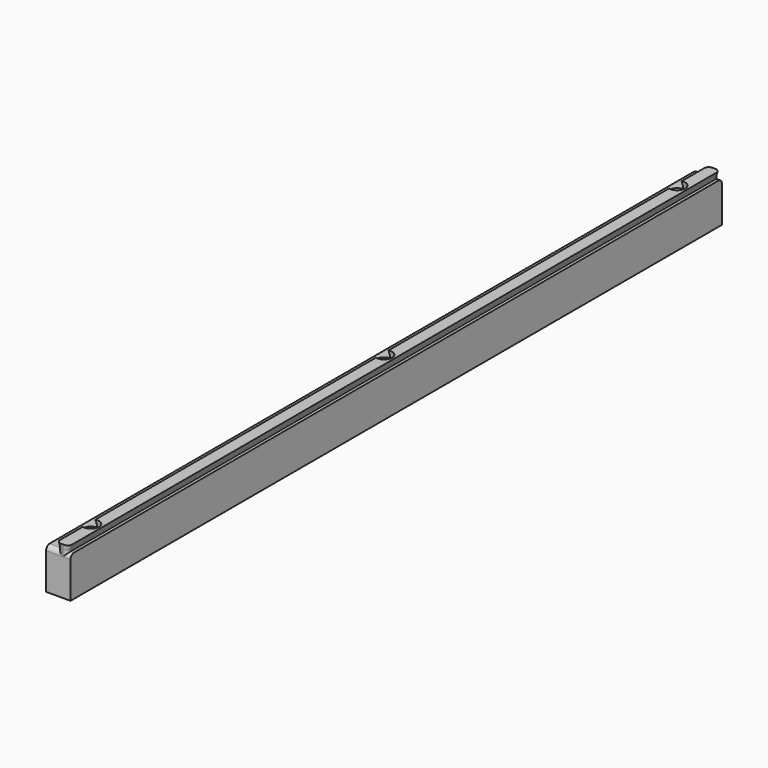
from build123d import *

# Parameters (mm, degrees)
BOX_W                             = 70
BOX_H                             = 200
BOX_DEPTH                         = 11.6
POCKET_DEPTH                      = 200.001
LINEARPATTERN_COUNT               = 5
LINEARPATTERN_PITCH               = 14.5
SKETCH_W                          = 82.408782
SKETCH_H                          = 38.885188
SKETCH_W_2                        = 6
SKETCH_H_2                        = 21.094656
POCKET001_DEPTH                   = 200.001
SKETCH003_R                       = 1
POCKET002_DEPTH                   = 5.201
SKETCH004_R                       = 1
POCKET003_DEPTH                   = 15
SKETCH005_R                       = 2
POCKET004_DEPTH                   = 4.5
FILLET_R                          = 1.1
PART_MIRRORING001_PLACEMENT_ANGLE = 180


with BuildPart() as fillet_body:
    # Box → Box (new body)
    with BuildSketch(Plane(origin=(-7.5, 0, 0), x_dir=(1, 0, 0), z_dir=(0, 0, 1))):
        with Locations((35, 100)):
            Rectangle(BOX_W, BOX_H)
    extrude(amount=BOX_DEPTH)

    # Sketch002 → Pocket (cut, through all)
    with BuildSketch(Plane(origin=(-7.5, 0, 0), x_dir=(1, 0, 0), z_dir=(0, -1, 0))):
        Polygon((14.1, 10), (11.2, 10), (11.2, 3), (2.7, 3), (2.7, 10), (1.9, 10), (1.9, 10.4), (2.25, 11.6), (13.75, 11.6), (14.1, 10.4), align=None)
    pocket = extrude(amount=-POCKET_DEPTH, mode=Mode.SUBTRACT)

    # LinearPattern: Pocket ×5
    with Locations(*[(i * LINEARPATTERN_PITCH, 0, 0) for i in range(1, LINEARPATTERN_COUNT)]):
        add(pocket, mode=Mode.SUBTRACT)

    # Sketch → Pocket001 (cut, through all)
    with BuildSketch(Plane(origin=(-7.5, 0, 0), x_dir=(1, 0, 0), z_dir=(0, -1, 0))):
        with Locations((35.413628, 6.289411)):
            Rectangle(SKETCH_W, SKETCH_H)
        with Locations((14.2, 4.644143)):
            Rectangle(SKETCH_W_2, SKETCH_H_2, mode=Mode.SUBTRACT)
    extrude(amount=-POCKET001_DEPTH, mode=Mode.SUBTRACT)

    # Sketch003 → Pocket002 (cut, through all)
    with BuildSketch(Plane.YZ.offset(8.9)):
        with Locations((21.45, -100)):
            Circle(SKETCH003_R)
        with Locations((21.45, -10)):
            Circle(SKETCH003_R)
        with Locations((21.45, -190)):
            Circle(SKETCH003_R)
    extrude(amount=-POCKET002_DEPTH, mode=Mode.SUBTRACT)

    # Sketch004 → Pocket003 (cut)
    with BuildSketch(Plane(origin=(-7.5, 0, 0), x_dir=(1, 0, 0), z_dir=(0, 0, -1))):
        with Locations((14.2, -190)):
            Circle(SKETCH004_R)
        with Locations((14.2, -100)):
            Circle(SKETCH004_R)
        with Locations((14.2, -10)):
            Circle(SKETCH004_R)
    extrude(amount=-POCKET003_DEPTH, mode=Mode.SUBTRACT)

    # Sketch005 → Pocket004 (cut)
    with BuildSketch(Plane(origin=(-7.5, 0, 11.6), x_dir=(1, 0, 0), z_dir=(0, 0, 1))):
        with Locations((14.2, 190)):
            Circle(SKETCH005_R)
        with Locations((14.2, 100)):
            Circle(SKETCH005_R)
        with Locations((14.2, 10)):
            Circle(SKETCH005_R)
    extrude(amount=-POCKET004_DEPTH, mode=Mode.SUBTRACT)

    # Fillet
    fillet_edges = [fillet_body.edges().sort_by_distance(p)[0] for p in [
        (5.15, 0, 10),
        (6.6, 0, 10.2),
        (6.425, 0, 11),
        (9.3, 0, 10),
        (8.9, 0, 10.2),
        (9.075, 0, 11),
        (5.15, 200, 10),
        (6.6, 200, 10.2),
        (6.425, 200, 11),
        (9.075, 200, 11),
        (8.9, 200, 10.2),
        (9.3, 200, 10),
    ]]
    fillet(fillet_edges, radius=FILLET_R)


with BuildPart() as part_mirroring001:
    # Part__Mirroring001: instance of Fillet body
    add(fillet_body.part.mirror(Plane(origin=(0, 0, 0), x_dir=(0, -1, 0), z_dir=(1, 0, 0))))


with BuildPart() as part_mirroring001_1:
    # Part__Mirroring001 placement: moved
    add(part_mirroring001.part.moved(Location((14.5, 200, 0))).rotate(Axis((14.5, 200, 0), (0, 0, 1)), PART_MIRRORING001_PLACEMENT_ANGLE))


solid = part_mirroring001_1.part
